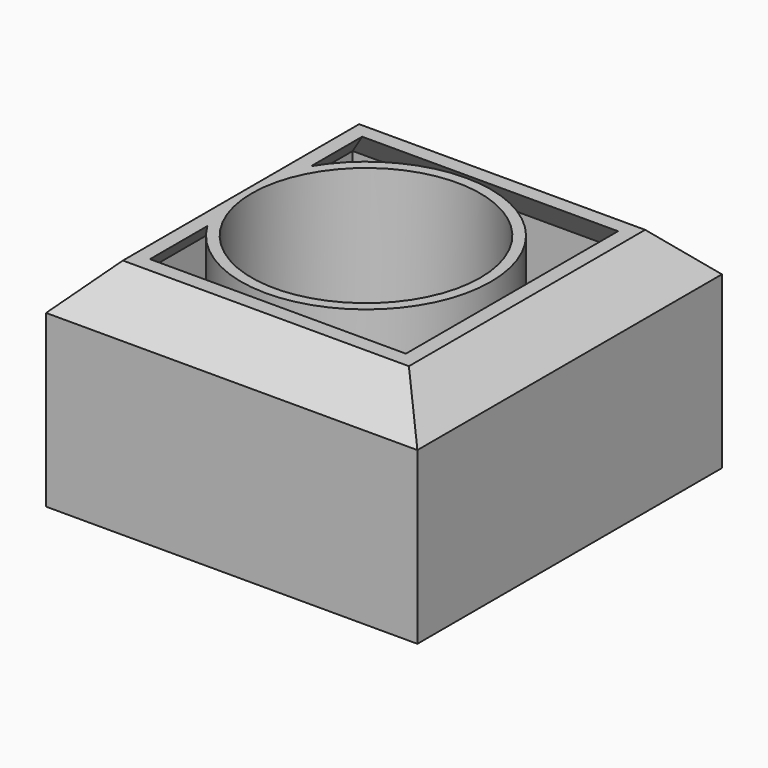
from build123d import *

# Parameters (mm, degrees)
F0_W     = 88.4682275355
F0_H     = 90.6854122877
F0_R     = 27.23223306
F1_DEPTH = 50.8
F2_SIZE  = 10.16
F3_T     = -2.54


with BuildPart() as f1:
    # F0 (on Top) → F1 (new body)
    with BuildSketch(Plane.XY):
        with Locations((5.0342325121, -0.9333491325)):
            Rectangle(F0_W, F0_H)
        Circle(F0_R, mode=Mode.SUBTRACT)
    extrude(amount=F1_DEPTH)

    # F2
    f2_edges = [f1.edges().sort_by_distance(p)[0] for p in [
        (5.034233, -46.276055, 50.8),
        (-39.199881, -0.933349, 50.8),
        (5.034233, 44.409357, 50.8),
        (49.268346, -0.933349, 50.8),
    ]]
    chamfer(f2_edges, length=F2_SIZE)

    # F3
    f3_openings = [f1.faces().sort_by_distance(p)[0] for p in [
        (5.034233, -35.13649, 50.8),
    ]]
    offset(amount=F3_T, openings=f3_openings)


solid = f1.part
